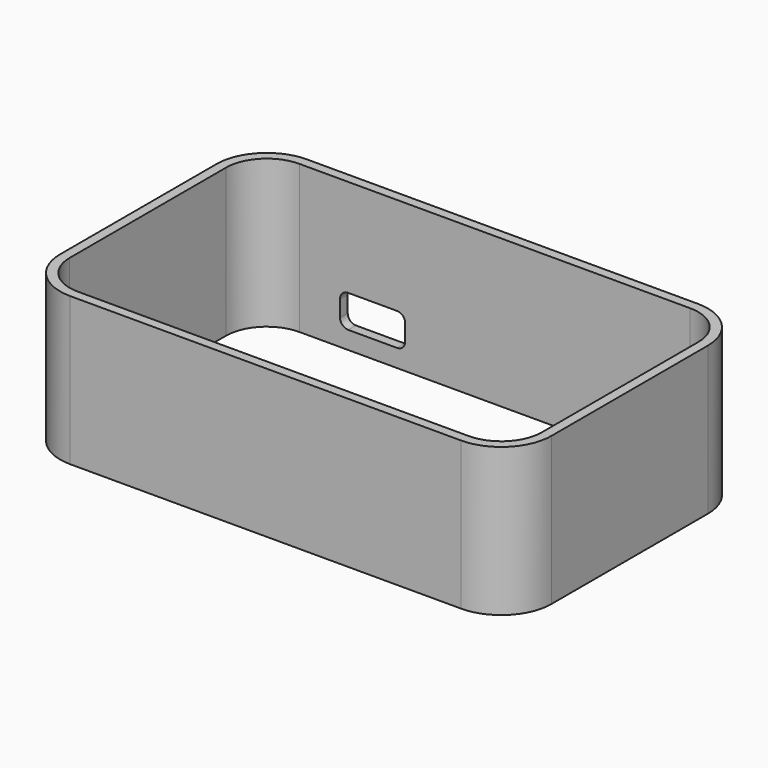
from build123d import *

# Parameters (mm, degrees)
PAD016_DEPTH    = 46.1772
SKETCH026_W     = 20.32
SKETCH026_H     = 10.16
POCKET004_DEPTH = 2.9972
FILLET_R        = 2.54


with BuildPart() as part:
    # Sketch019 → Pad016 (new body)
    with BuildSketch(Plane.XY.offset(-33.9852)):
        with BuildLine():
            Line((-60.96, 46.1772), (60.96, 46.1772))
            ThreePointArc((76.6572, 30.48), (72.059597, 41.579597), (60.96, 46.1772))
            Line((76.6572, 30.48), (76.6572, -30.48))
            ThreePointArc((60.96, -46.1772), (72.059597, -41.579597), (76.6572, -30.48))
            Line((60.96, -46.1772), (-60.96, -46.1772))
            ThreePointArc((-76.6572, -30.48), (-72.059597, -41.579597), (-60.96, -46.1772))
            Line((-76.6572, -30.48), (-76.6572, 30.48))
            ThreePointArc((-60.96, 46.1772), (-72.059597, 41.579597), (-76.6572, 30.48))
        make_face()
        with BuildLine():
            Line((-60.96, 43.18), (60.96, 43.18))
            ThreePointArc((73.66, 30.48), (69.940256, 39.460256), (60.96, 43.18))
            Line((73.66, 30.48), (73.66, -30.48))
            ThreePointArc((60.96, -43.18), (69.940256, -39.460256), (73.66, -30.48))
            Line((60.96, -43.18), (-60.96, -43.18))
            ThreePointArc((-73.66, -30.48), (-69.940256, -39.460256), (-60.96, -43.18))
            Line((-73.66, -30.48), (-73.66, 30.48))
            ThreePointArc((-60.96, 43.18), (-69.940256, 39.460256), (-73.66, 30.48))
        make_face(mode=Mode.SUBTRACT)
    extrude(amount=-PAD016_DEPTH)

    # Sketch026 → Pocket004 (cut)
    with BuildSketch(Plane(origin=(0, 46.1772, -33.9852), x_dir=(-1, 0, 0), z_dir=(0, 1, 0))):
        with Locations((38.1, -35.56)):
            Rectangle(SKETCH026_W, SKETCH026_H)
    extrude(amount=-POCKET004_DEPTH, mode=Mode.SUBTRACT)

    # Fillet
    fillet_edges = [part.edges().sort_by_distance(p)[0] for p in [
        (-27.94, 44.6786, -64.4652),
        (-27.94, 44.6786, -74.6252),
        (-48.26, 44.6786, -74.6252),
        (-48.26, 44.6786, -64.4652),
    ]]
    fillet(fillet_edges, radius=FILLET_R)


solid = part.part
